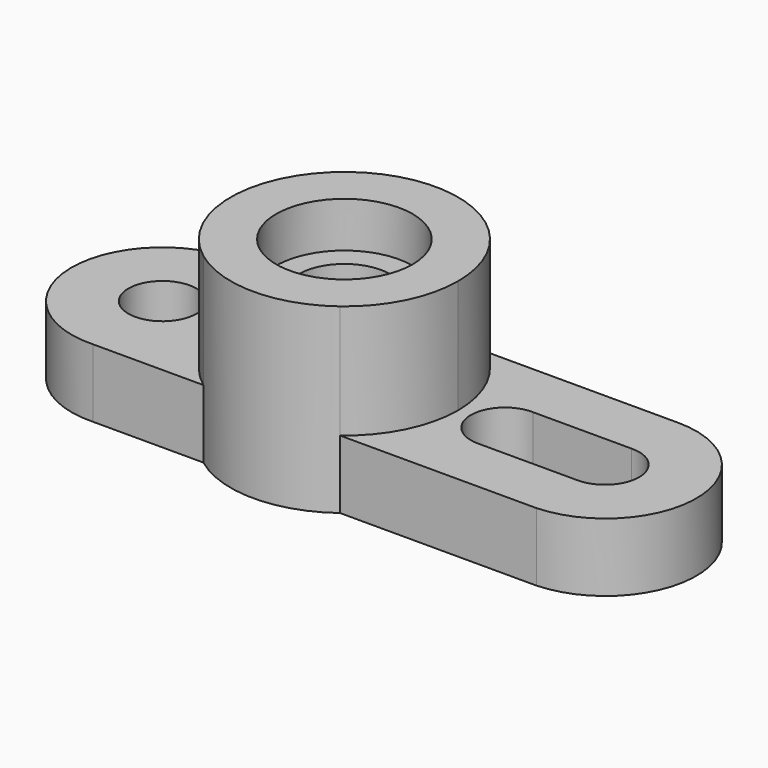
from build123d import *

# Parameters (mm, degrees)
F0_R     = 19.05
F1_DEPTH = 50.8
F2_DEPTH = 38.1
F0_R_2   = 9.525
F3_DEPTH = 19.05


with BuildPart() as f1:
    # F0 (on Top) → F1 (new body)
    with BuildSketch(Plane.XY):
        with BuildLine():
            ThreePointArc((19.075155, -25.381114), (28.405093, -14.184963), (31.75, 0))
            ThreePointArc((31.75, 0), (28.398153, 14.198852), (19.050322, 25.399759))
            ThreePointArc((19.050322, 25.399759), (-0.000142, 31.75), (-19.050549, 25.399588))
            ThreePointArc((-19.050549, 25.399588), (-31.749996, 0.015384), (-19.075155, -25.381114))
            ThreePointArc((-19.075155, -25.381114), (0, -31.75), (19.075155, -25.381114))
        make_face()
        Circle(F0_R, mode=Mode.SUBTRACT)
    extrude(amount=F1_DEPTH)

    # F0 (on Top) → F2 (join)
    with BuildSketch(Plane.XY):
        Circle(F0_R)
        with BuildLine():
            ThreePointArc((-0.198518, -12.698448), (0.00023, 12.7), (0.198058, -12.698456))
            Line((0.198058, -12.698456), (-0.198518, -12.698448))
        make_face(mode=Mode.SUBTRACT)
    extrude(amount=F2_DEPTH)

    # F0 (on Top) → F3 (join)
    with BuildSketch(Plane.XY):
        with BuildLine():
            ThreePointArc((19.050322, 25.399759), (28.398153, 14.198852), (31.75, 0))
            ThreePointArc((31.75, 0), (28.405093, -14.184963), (19.075155, -25.381114))
            Line((19.075155, -25.381114), (71.918698, -25.381114))
            Line((71.918698, -25.381114), (73.877302, -25.381114))
            ThreePointArc((73.877302, -25.381114), (98.293277, 0.489799), (72.897886, 25.4))
            Line((72.897886, 25.4), (19.050322, 25.399759))
        make_face()
        with BuildLine():
            ThreePointArc((44.831, -9.525), (35.306985, 0.136988), (45.104947, 9.52106))
            Line((45.104947, 9.52106), (72.497053, 9.52106))
            ThreePointArc((72.497053, 9.52106), (82.295015, 0.136988), (72.771, -9.525))
            Line((72.771, -9.525), (44.831, -9.525))
        make_face(mode=Mode.SUBTRACT)
        with BuildLine():
            ThreePointArc((-19.075155, -25.381114), (-31.749996, 0.015384), (-19.050549, 25.399588))
            Line((-19.050549, 25.399588), (-50.63229, 25.399446))
            ThreePointArc((-50.63229, 25.399446), (-76.196757, -0.4059), (-49.820698, -25.381114))
            Line((-49.820698, -25.381114), (-19.075155, -25.381114))
        make_face()
        with BuildLine():
            ThreePointArc((-50.54993, -12.697538), (-50.80023, -12.7), (-51.05053, -12.697529))
            Line((-51.05053, -12.697529), (-50.54993, -12.697538))
        make_face(mode=Mode.SUBTRACT)
        with Locations((-50.8, 0)):
            Circle(F0_R_2, mode=Mode.SUBTRACT)
    extrude(amount=F3_DEPTH)


solid = f1.part
